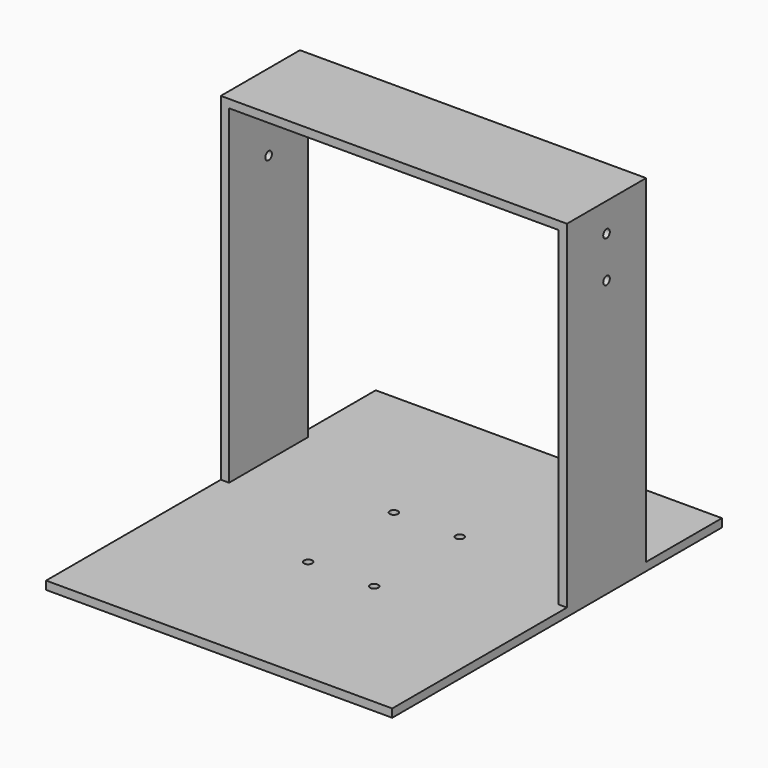
from build123d import *

# Parameters (mm, degrees)
F0_W     = 84
F0_H     = 100
F1_DEPTH = 2
F2_W     = 2
F2_H     = 24
F3_DEPTH = 80
F4_W     = 84
F4_H     = 24
F5_DEPTH = 2
F7_D     = 2
F7_DEPTH = 2.001
F9_D     = 2


with BuildPart() as f1:
    # F0 (on Top) → F1 (new body)
    with BuildSketch(Plane.XY):
        with Locations((42, -50)):
            Rectangle(F0_W, F0_H)
    extrude(amount=F1_DEPTH)

    # F2 (on face) → F3 (join)
    with BuildSketch(Plane.XY.offset(2)):
        with Locations((1, -35)):
            Rectangle(F2_W, F2_H)
        with Locations((83, -35)):
            Rectangle(F2_W, F2_H)
    extrude(amount=F3_DEPTH)

    # F4 (on face) → F5 (join)
    with BuildSketch(Plane.XY.offset(82)):
        with Locations((42, -35)):
            Rectangle(F4_W, F4_H)
    extrude(amount=F5_DEPTH)

    # F7 (through all, one way)
    with BuildSketch(Plane.XY.offset(2)):
        with Locations((34, -37), (50, -37), (50, -63), (34, -63)):
            Circle(F7_D / 2)
    extrude(amount=-F7_DEPTH, mode=Mode.SUBTRACT)

    # F9 (through all)
    with Locations(Plane.YZ.offset(84)):
        with Locations((-35, 77), (-35, 67)):
            Hole(F9_D / 2)


solid = f1.part
